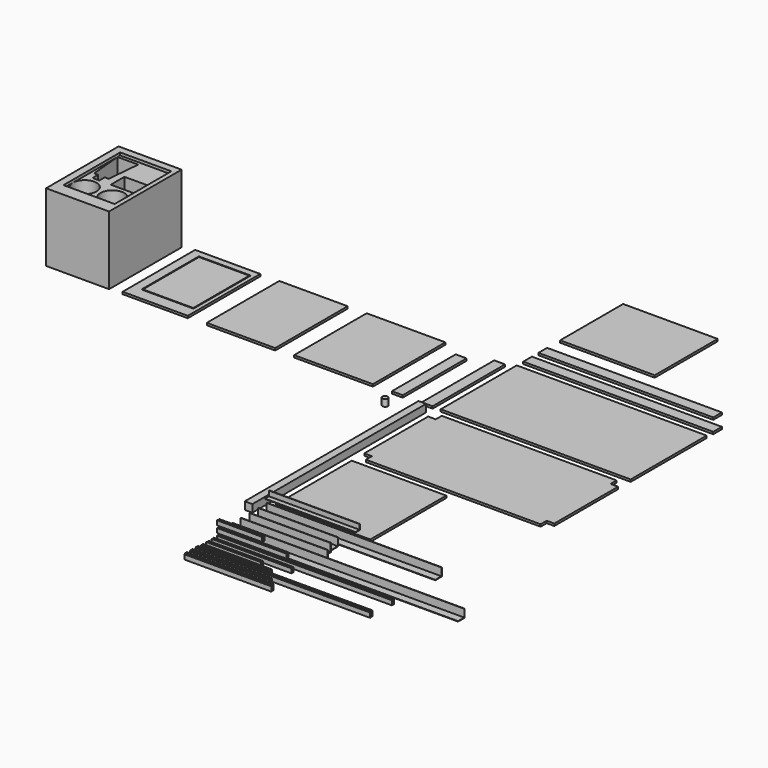
from build123d import *

# Parameters (mm, degrees)
F8_W      = 700
F8_H      = 350
F9_DEPTH  = 8
F8_H_2    = 40
F8_W_2    = 40
F8_H_3    = 334
F8_W_3    = 644
F8_H_4    = 294
F8_W_4    = 290
F8_W_5    = 348.5
F8_H_5    = 290
F8_W_6    = 252
F8_W_7    = 240
F8_W_8    = 191.5
F8_H_6    = 264
F11_DEPTH = 644
F12_DEPTH = 294
F13_DEPTH = 300
F14_DEPTH = 320.5
F15_DEPTH = 856
F17_DEPTH = 644
F18_DEPTH = 294
F19_DEPTH = 255
F20_DEPTH = 202
F22_DEPTH = 644
F23_DEPTH = 294
F24_DEPTH = 320.5
F25_W     = 28
F25_H     = 800
F26_DEPTH = 28
F27_R     = 10
F28_DEPTH = 25
F8_W_9    = 185.5
F8_H_7    = 258
F29_DEPTH = 8
F30_DEPTH = 255
F31_DEPTH = 166
F32_W     = 232
F32_H     = 334
F33_DEPTH = 252
F34_DEPTH = 334
F35_W     = 188.5
F35_H     = 261
F36_DEPTH = 10
F37_R     = 43.5
F38_DEPTH = 216
F39_W     = 96
F39_H     = 63
F40_DEPTH = 96
F42_DEPTH = 170


with BuildPart() as f9:
    # F8 (on Top) → F9 (new body)
    with BuildSketch(Plane.XY):
        with Locations((350, 175)):
            Rectangle(F8_W, F8_H)
    extrude(amount=F9_DEPTH)


with BuildPart() as f9b:
    # F8 (on Top) → F9, piece 2 (new body)
    with BuildSketch(Plane.XY):
        with Locations((350, 400)):
            Rectangle(F8_W, F8_H_2)
    extrude(amount=F9_DEPTH)


with BuildPart() as f9c:
    # F8 (on Top) → F9, piece 3 (new body)
    with BuildSketch(Plane.XY):
        with Locations((-50, 167)):
            Rectangle(F8_W_2, F8_H_3)
    extrude(amount=F9_DEPTH)


with BuildPart() as f9d:
    # F8 (on Top) → F9, piece 4 (new body)
    with BuildSketch(Plane.XY):
        with Locations((322, 470)):
            Rectangle(F8_W_3, F8_H_2)
    extrude(amount=F9_DEPTH)


with BuildPart() as f9e:
    # F8 (on Top) → F9, piece 5 (new body)
    with BuildSketch(Plane.XY):
        with Locations((-160, 147)):
            Rectangle(F8_W_2, F8_H_4)
    extrude(amount=F9_DEPTH)


with BuildPart() as f9f:
    # F8 (on Top) → F9, piece 6 (new body)
    with BuildSketch(Plane.XY):
        Polygon((672, -30), (28, -30), (28, -58), (0, -58), (0, -352), (28, -352), (28, -380), (672, -380), (672, -352), (700, -352), (700, -58), (672, -58), align=None)
    extrude(amount=F9_DEPTH)


with BuildPart() as f9g:
    # F8 (on Top) → F9, piece 7 (new body)
    with BuildSketch(Plane.XY):
        with Locations((-395, 167)):
            Rectangle(F8_W_4, F8_H_3)
    extrude(amount=F9_DEPTH)


with BuildPart() as f9h:
    # F8 (on Top) → F9, piece 8 (new body)
    with BuildSketch(Plane.XY):
        with Locations((174.25, 695)):
            Rectangle(F8_W_5, F8_H_5)
    extrude(amount=F9_DEPTH)


with BuildPart() as f9i:
    # F8 (on Top) → F9, piece 9 (new body)
    with BuildSketch(Plane.XY):
        with Locations((174.25, -585)):
            Rectangle(F8_W_5, F8_H)
    extrude(amount=F9_DEPTH)


with BuildPart() as f9j:
    # F8 (on Top) → F9, piece 10 (new body)
    with BuildSketch(Plane.XY):
        with Locations((-736, 167)):
            Rectangle(F8_W_6, F8_H_3)
    extrude(amount=F9_DEPTH)


with BuildPart() as f9k:
    # F8 (on Top) → F9, piece 11 (new body)
    with BuildSketch(Plane.XY):
        with Locations((-1052, 167)):
            Rectangle(F8_W_7, F8_H_3)
        with Locations((-1042.75, 177)):
            Rectangle(F8_W_8, F8_H_6, mode=Mode.SUBTRACT)
    extrude(amount=F9_DEPTH)


with BuildPart() as f11:
    # F10 (on Right) → F11 (new body)
    with BuildSketch(Plane.YZ):
        Polygon((-830, 0), (-800, 0), (-800, 30), (-801.5, 30), (-801.5, 1.5), (-830, 1.5), align=None)
    extrude(amount=F11_DEPTH)


with BuildPart() as f12:
    # F10 (on Right) → F12 (new body)
    with BuildSketch(Plane.YZ):
        Polygon((-870, 1.5), (-870, 0), (-840, 0), (-840, 30), (-841.5, 30), (-841.5, 1.5), align=None)
    extrude(amount=F12_DEPTH)


with BuildPart() as f13:
    # F10 (on Right) → F13 (new body)
    with BuildSketch(Plane.YZ):
        Polygon((-910, 1.5), (-910, 0), (-880, 0), (-880, 30), (-881.5, 30), (-881.5, 1.5), align=None)
    extrude(amount=F13_DEPTH)


with BuildPart() as f14:
    # F10 (on Right) → F14 (new body)
    with BuildSketch(Plane.YZ):
        Polygon((-950, 1.5), (-950, 0), (-920, 0), (-920, 30), (-921.5, 30), (-921.5, 1.5), align=None)
    extrude(amount=F14_DEPTH)


with BuildPart() as f15:
    # F10 (on Right) → F15 (new body)
    with BuildSketch(Plane.YZ):
        Polygon((-990, 1.5), (-990, 0), (-960, 0), (-960, 30), (-961.5, 30), (-961.5, 1.5), align=None)
    extrude(amount=F15_DEPTH)


with BuildPart() as f17:
    # F16 (on Right) → F17 (new body)
    with BuildSketch(Plane.YZ):
        Polygon((-1030, 0), (-1020, 0), (-1020, 16.5), (-1021.5, 16.5), (-1021.5, 1.5), (-1028.5, 1.5), (-1028.5, 16.5), (-1030, 16.5), align=None)
    extrude(amount=F17_DEPTH)


with BuildPart() as f18:
    # F16 (on Right) → F18 (new body)
    with BuildSketch(Plane.YZ):
        Polygon((-1055, 0), (-1045, 0), (-1045, 16.5), (-1046.5, 16.5), (-1046.5, 1.5), (-1053.5, 1.5), (-1053.5, 16.5), (-1055, 16.5), align=None)
    extrude(amount=F18_DEPTH)


with BuildPart() as f19:
    # F16 (on Right) → F19 (new body)
    with BuildSketch(Plane.YZ):
        Polygon((-1105, 0), (-1095, 0), (-1095, 16.5), (-1096.5, 16.5), (-1096.5, 1.5), (-1103.5, 1.5), (-1103.5, 16.5), (-1105, 16.5), align=None)
    extrude(amount=F19_DEPTH)


with BuildPart() as f20:
    # F16 (on Right) → F20 (new body)
    with BuildSketch(Plane.YZ):
        Polygon((-1080, 0), (-1070, 0), (-1070, 16.5), (-1071.5, 16.5), (-1071.5, 1.5), (-1078.5, 1.5), (-1078.5, 16.5), (-1080, 16.5), align=None)
    extrude(amount=F20_DEPTH)


with BuildPart() as f22:
    # F21 (on Right) → F22 (new body)
    with BuildSketch(Plane.YZ):
        Polygon((-1121.4352741241, 0), (-1119.9352741241, 0), (-1119.9352741241, 20.5), (-1123.2686074575, 17.1666666667), (-1126.6019407908, 20.5), (-1129.9352741241, 17.1666666667), (-1129.9352741241, 0), (-1128.4352741241, 0), (-1128.4352741241, 15), (-1121.4352741241, 15), align=None)
    extrude(amount=F22_DEPTH)


with BuildPart() as f23:
    # F21 (on Right) → F23 (new body)
    with BuildSketch(Plane.YZ):
        Polygon((-1154.9352741241, 17.1666666667), (-1154.9352741241, 0), (-1153.4352741241, 0), (-1153.4352741241, 15), (-1146.4352741241, 15), (-1146.4352741241, 0), (-1144.9352741241, 0), (-1144.9352741241, 20.5), (-1148.2686074575, 17.1666666667), (-1151.6019407908, 20.5), align=None)
    extrude(amount=F23_DEPTH)


with BuildPart() as f24:
    # F21 (on Right) → F24 (new body)
    with BuildSketch(Plane.YZ):
        Polygon((-1179.9352741241, 17.1666666667), (-1179.9352741241, 0), (-1178.4352741241, 0), (-1178.4352741241, 15), (-1171.4352741241, 15), (-1171.4352741241, 0), (-1169.9352741241, 0), (-1169.9352741241, 20.5), (-1173.2686074575, 17.1666666667), (-1176.6019407908, 20.5), align=None)
    extrude(amount=F24_DEPTH)


with BuildPart() as f26:
    # F25 (on Top) → F26 (new body)
    with BuildSketch(Plane.XY):
        with Locations((-44, -430)):
            Rectangle(F25_W, F25_H)
    extrude(amount=F26_DEPTH)


with BuildPart() as f28:
    # F27 (on Top) → F28 (new body)
    with BuildSketch(Plane.XY):
        with Locations((-150.239393115, -68.6134025455)):
            Circle(F27_R)
    extrude(amount=F28_DEPTH)


with BuildPart() as f29:
    # F8 (on Top) → F29 (new body)
    with BuildSketch(Plane.XY):
        with Locations((-1042.75, 177)):
            Rectangle(F8_W_9, F8_H_7)
    extrude(amount=F29_DEPTH)


with BuildPart() as f30:
    # F16 (on Right) → F30 (new body)
    with BuildSketch(Plane.YZ):
        Polygon((-1020, 25), (-1020, 41.5), (-1021.5, 41.5), (-1021.5, 26.5), (-1028.5, 26.5), (-1028.5, 41.5), (-1030, 41.5), (-1030, 25), align=None)
    extrude(amount=F30_DEPTH)


with BuildPart() as f31:
    # F16 (on Right) → F31 (new body)
    with BuildSketch(Plane.YZ):
        Polygon((-1020, 50), (-1020, 66.5), (-1021.5, 66.5), (-1021.5, 51.5), (-1028.5, 51.5), (-1028.5, 66.5), (-1030, 66.5), (-1030, 50), align=None)
    extrude(amount=F31_DEPTH)


with BuildPart() as f33:
    # F32 (on Top) → F33 (new body)
    with BuildSketch(Plane.XY):
        with Locations((-1338, 167)):
            Rectangle(F32_W, F32_H)
    extrude(amount=F33_DEPTH)

    # F35 (on face) → F36 (cut)
    with BuildSketch(Plane.XY.offset(252)):
        with Locations((-1332.75, 177)):
            Rectangle(F35_W, F35_H)
    extrude(amount=-F36_DEPTH, mode=Mode.SUBTRACT)

    # F37 (on face) → F38 (cut)
    with BuildSketch(Plane.XY.offset(242)):
        with Locations((-1282, 90)):
            Circle(F37_R)
        with Locations((-1383.5, 90)):
            Circle(F37_R)
    extrude(amount=-F38_DEPTH, mode=Mode.SUBTRACT)

    # F39 (on face) → F40 (cut)
    with BuildSketch(Plane.XY.offset(242)):
        with Locations((-1286.5, 180)):
            Rectangle(F39_W, F39_H)
    extrude(amount=-F40_DEPTH, mode=Mode.SUBTRACT)

    # F41 (on face) → F42 (cut)
    with BuildSketch(Plane.XY.offset(242)):
        Polygon((-1351, 295.5), (-1389, 295.5), (-1427, 295.5), (-1416, 173.5), (-1401.5, 173.5), (-1401.5, 148.5), (-1389, 148.5), (-1376.5, 148.5), (-1376.5, 173.5), (-1362, 173.5), align=None)
    extrude(amount=-F42_DEPTH, mode=Mode.SUBTRACT)


with BuildPart() as f34:
    # F10 (on Right) → F34 (new body)
    with BuildSketch(Plane.YZ):
        Polygon((-810.0903024673, 46.1447864175), (-790.0903024673, 46.1447864175), (-790.0903024673, 66.1447864175), (-791.5903024673, 66.1447864175), (-791.5903024673, 47.6447864175), (-810.0903024673, 47.6447864175), align=None)
    extrude(amount=F34_DEPTH)


solid = Compound([f9.part, f9b.part, f9c.part, f9d.part, f9e.part, f9f.part, f9g.part, f9h.part, f9i.part, f9j.part, f9k.part, f11.part, f12.part, f13.part, f14.part, f15.part, f17.part, f18.part, f19.part, f20.part, f22.part, f23.part, f24.part, f26.part, f28.part, f29.part, f30.part, f31.part, f33.part, f34.part])
